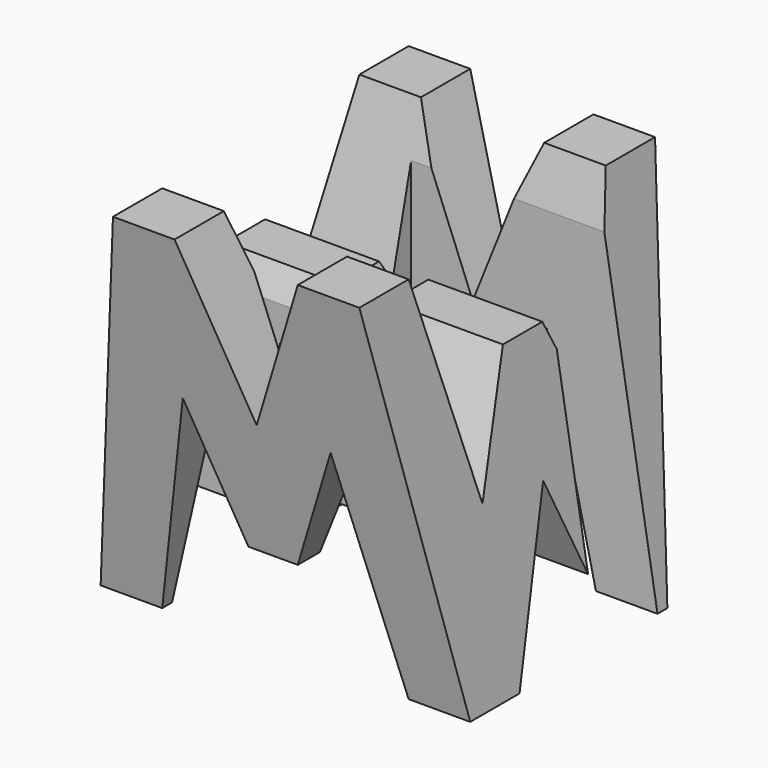
from build123d import *

# Parameters (mm, degrees)
F0_W     = 38.1
F0_H     = 38.1
F1_DEPTH = 38.1
F5_DEPTH = 38.1
F7_DEPTH = 38.1
F8_W     = 25.4
F8_H     = 7.62
F9_DEPTH = 38.1


with BuildPart() as f1:
    # F0 (on Front) → F1 (new body)
    with BuildSketch(Plane.XZ):
        with Locations((19.05, 19.05)):
            Rectangle(F0_W, F0_H)
    extrude(amount=F1_DEPTH)

    # F4 (on face) → F5 (cut)
    with BuildSketch(Plane.YZ.offset(38.1)):
        Polygon((-6.35, 38.1), (-31.75, 38.1), (-26.67, 16.814783), (-21.59, 28.575), (-16.51, 28.575), (-11.43, 17.16294), align=None)
        Polygon((-31.75, 0), (-38.1, 38.1), (-38.1, 0), align=None)
        Polygon((-19.05, 15.875), (-25.4, 0), (-12.7, 0), align=None)
        Polygon((0, 0), (0, 38.1), (-6.35, 0), align=None)
    extrude(amount=-F5_DEPTH, mode=Mode.SUBTRACT)

    # F6 (on offset) → F7 (cut)
    with BuildSketch(Plane.XZ.offset(38.1)):
        Polygon((0, 38.1), (0, 0), (6.35, 38.1), align=None)
        Polygon((11.43, 22.225), (6.35, 0), (31.75, 0), (26.67, 22.225), (21.59, 9.525), (16.51, 9.525), align=None)
        Polygon((25.4, 38.1), (12.7, 38.1), (19.05, 22.225), align=None)
        Polygon((31.75, 38.1), (38.1, 0), (38.1, 38.1), align=None)
    extrude(amount=-F7_DEPTH, mode=Mode.SUBTRACT)

    # F8 (on offset) → F9 (cut)
    with BuildSketch(Plane.XY.offset(38.1)):
        with Locations((25.4, -11.43)):
            Rectangle(F8_W, F8_H)
        with Locations((12.7, -26.67)):
            Rectangle(F8_W, F8_H)
    extrude(amount=-F9_DEPTH, mode=Mode.SUBTRACT)


solid = f1.part
